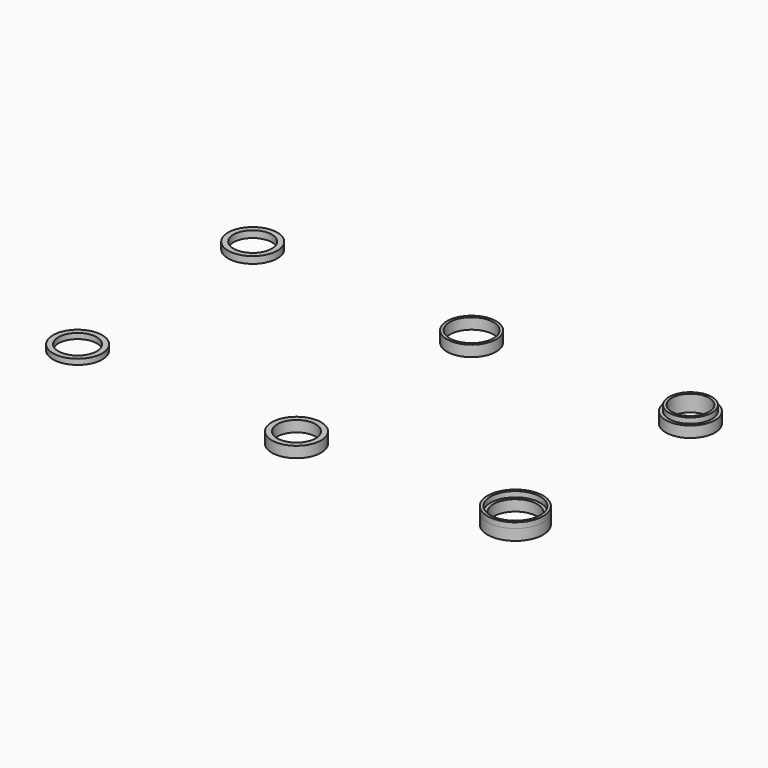
from build123d import *

# Parameters (mm, degrees)
F0_R     = 4.5
F0_R_2   = 4
F1_DEPTH = 2
F0_R_3   = 3.5
F0_R_4   = 5.075
F0_R_5   = 4.575
F0_R_6   = 3.925
F0_R_7   = 3.425
F2_DEPTH = 1
F3_DEPTH = 1.25
F4_DEPTH = 1


with BuildPart() as f1:
    # F0 (on Top) → F1 (new body)
    with BuildSketch(Plane.XY):
        with Locations((-20, 20)):
            Circle(F0_R)
        with Locations((-20, 20)):
            Circle(F0_R_2, mode=Mode.SUBTRACT)
    extrude(amount=-F1_DEPTH)


with BuildPart() as f1b:
    # F0 (on Top) → F1, piece 2 (new body)
    with BuildSketch(Plane.XY):
        with Locations((-20, -20)):
            Circle(F0_R)
        with Locations((-20, -20)):
            Circle(F0_R_3, mode=Mode.SUBTRACT)
    extrude(amount=-F1_DEPTH)


with BuildPart() as f1c:
    # F0 (on Top) → F1, piece 3 (new body)
    with BuildSketch(Plane.XY):
        with Locations((20, -20)):
            Circle(F0_R_4)
        with Locations((20, -20)):
            Circle(F0_R_5, mode=Mode.SUBTRACT)
        with Locations((20, -20)):
            Circle(F0_R_5)
        with Locations((20, -20)):
            Circle(F0_R_2, mode=Mode.SUBTRACT)
    extrude(amount=-F1_DEPTH)

    # F0 (on Top) → F2, piece 2 (join)
    with BuildSketch(Plane.XY):
        with Locations((20, -20)):
            Circle(F0_R_4)
        with Locations((20, -20)):
            Circle(F0_R_5, mode=Mode.SUBTRACT)
    extrude(amount=F2_DEPTH)


with BuildPart() as f1d:
    # F0 (on Top) → F1, piece 4 (new body)
    with BuildSketch(Plane.XY):
        with Locations((20, 20)):
            Circle(F0_R)
        with Locations((20, 20)):
            Circle(F0_R_6, mode=Mode.SUBTRACT)
        with Locations((20, 20)):
            Circle(F0_R_6)
        with Locations((20, 20)):
            Circle(F0_R_7, mode=Mode.SUBTRACT)
    extrude(amount=-F1_DEPTH)

    # F0 (on Top) → F2 (join)
    with BuildSketch(Plane.XY):
        with Locations((20, 20)):
            Circle(F0_R_6)
        with Locations((20, 20)):
            Circle(F0_R_7, mode=Mode.SUBTRACT)
    extrude(amount=F2_DEPTH)


with BuildPart() as f3:
    # F0 (on Top) → F3 (new body)
    with BuildSketch(Plane.XY):
        with Locations((-60, 20)):
            Circle(F0_R)
        with Locations((-60, 20)):
            Circle(F0_R_3, mode=Mode.SUBTRACT)
    extrude(amount=F3_DEPTH)


with BuildPart() as f4:
    # F0 (on Top) → F4 (new body)
    with BuildSketch(Plane.XY):
        with Locations((-60, -20)):
            Circle(F0_R)
        with Locations((-60, -20)):
            Circle(F0_R_3, mode=Mode.SUBTRACT)
    extrude(amount=F4_DEPTH)


solid = Compound([f1.part, f1b.part, f1c.part, f1d.part, f3.part, f4.part])
